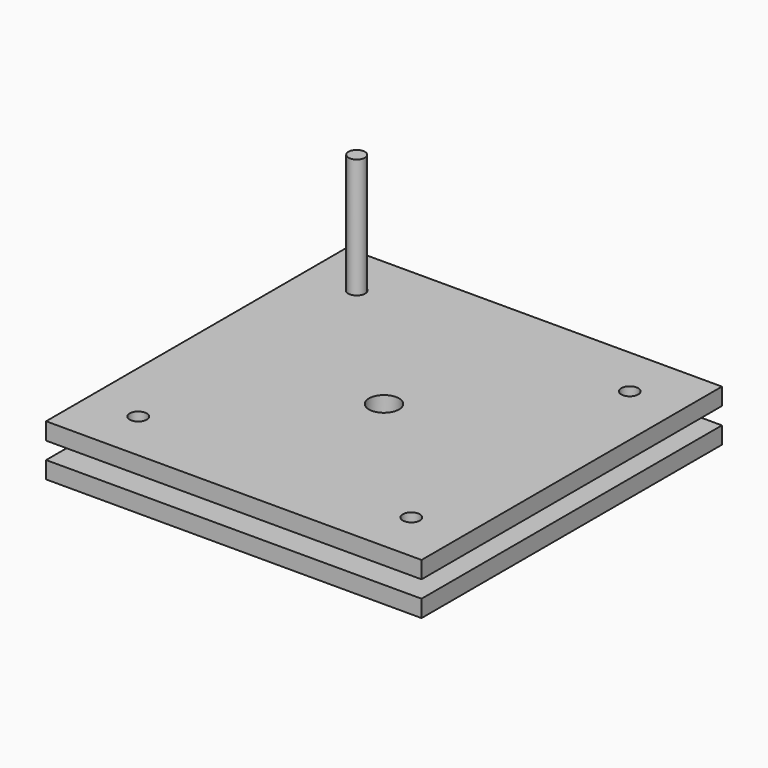
from build123d import *

# Parameters (mm, degrees)
F0_W     = 558.8
F0_H     = 558.8
F0_R     = 12.7
F0_R_2   = 22.352
F1_DEPTH = 25.4
F2_W     = 457.2
F2_H     = 457.2
F3_DEPTH = 25.4
F4_W     = 38.1
F4_H     = 38.1
F5_DEPTH = 177.8
F6_W     = 558.8
F6_H     = 558.8
F7_DEPTH = 25.4
F8_R     = 12.192
F9_DEPTH = 203.2


with BuildPart() as f1:
    # F0 (on Top) → F1 (new body)
    with BuildSketch(Plane.XY):
        Rectangle(F0_W, F0_H)
        with Locations((-203.2, -203.2)):
            Circle(F0_R, mode=Mode.SUBTRACT)
        with Locations((203.2, -203.2)):
            Circle(F0_R, mode=Mode.SUBTRACT)
        with Locations((-203.2, 203.2)):
            Circle(F0_R, mode=Mode.SUBTRACT)
        Circle(F0_R_2, mode=Mode.SUBTRACT)
        with Locations((203.2, 203.2)):
            Circle(F0_R, mode=Mode.SUBTRACT)
    extrude(amount=F1_DEPTH)


with BuildPart() as f3:
    # F2 (on Top) → F3 (new body)
    with BuildSketch(Plane.XY):
        Rectangle(F2_W, F2_H)
    extrude(amount=-F3_DEPTH)


with BuildPart() as f5:
    # F4 (on Top) → F5 (new body)
    with BuildSketch(Plane.XY):
        with Locations((-260.35, 260.35)):
            Rectangle(F4_W, F4_H)
    extrude(amount=-F5_DEPTH)


with BuildPart() as f7:
    # F6 (on face) → F7 (new body)
    with BuildSketch(Plane(origin=(0, 0, -25.4), x_dir=(1, 0, 0), z_dir=(0, 0, -1))):
        Rectangle(F6_W, F6_H)
    extrude(amount=F7_DEPTH)


with BuildPart() as f9:
    # F8 (on face) → F9 (new body)
    with BuildSketch(Plane.XY):
        with Locations((-203.2, 203.2)):
            Circle(F8_R)
    extrude(amount=F9_DEPTH)


solid = Compound([f1.part, f3.part, f5.part, f7.part, f9.part])
